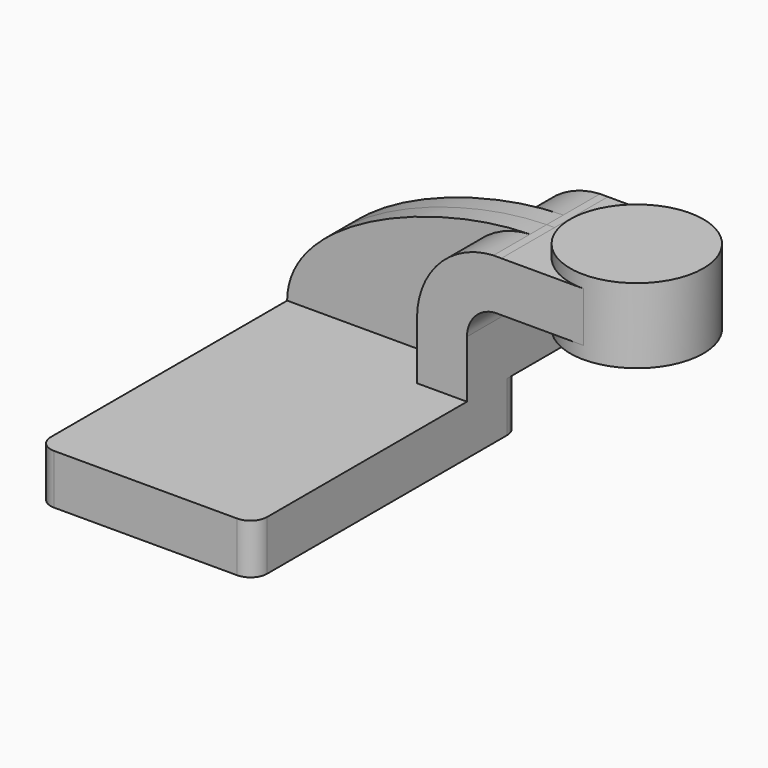
from build123d import *

# Parameters (mm, degrees)
F1_DEPTH = 127
F0_W     = 25.4
F0_H     = 19.05
F2_DEPTH = 25.4
F3_DEPTH = 7.9375
F5_R     = 6.35


with BuildPart() as f1:
    # F0 (on Front) → F1 (new body)
    with BuildSketch(Plane.XZ):
        Polygon((41.275, -9.525), (41.275, 9.525), (22.225, 9.525), (-41.275, 9.525), (-41.275, -9.525), align=None)
    extrude(amount=F1_DEPTH)

    # F0 (on Front) → F2 (join, symmetric)
    with BuildSketch(Plane.XZ):
        with BuildLine():
            Line((22.225, 9.525), (41.275, 9.525))
            Line((41.275, 9.525), (41.275, 31.3365191218))
            ThreePointArc((41.275, 31.3365191218), (45.0038822026, 39.8471765228), (53.788352915, 42.8752))
            Line((53.788352915, 42.8752), (60.325, 42.8752))
            Line((60.325, 42.8752), (60.325, 61.9252))
            Line((60.325, 61.9252), (54.3759968817, 61.9252))
            add(Edge.make_bspline(
                [(51.370796581, 61.9273374506), (52.3872818236, 61.9429580973), (53.3895331595, 61.9423398279), (54.3759968817, 61.9252)],
                knots=[106.1406160735, 106.1406160735, 106.1406160735, 106.1406160735, 109.0637160769, 109.0637160769, 109.0637160769, 109.0637160769], degree=3))
            ThreePointArc((51.370796581, 61.9273374506), (30.6779581359, 52.4627801751), (22.225, 31.3365191218))
            Line((22.225, 31.3365191218), (22.225, 9.525))
        make_face()
        with Locations((73.025, 52.4002)):
            Rectangle(F0_W, F0_H)
    extrude(amount=F2_DEPTH, both=True)

    # F0 (on Front) → F3 (join, symmetric)
    with BuildSketch(Plane.XZ):
        with BuildLine():
            Line((-41.275, 9.525), (22.225, 9.525))
            Line((22.225, 9.525), (22.225, 31.3365191218))
            ThreePointArc((22.225, 31.3365191218), (30.6779581359, 52.4627801751), (51.370796581, 61.9273374506))
            add(Edge.make_bspline(
                [(-41.275, 9.525), (-41.2155685722, 39.382135411), (14.4612246374, 61.3601365133), (51.370796581, 61.9273374506)],
                knots=[0, 0, 0, 0, 106.1406160735, 106.1406160735, 106.1406160735, 106.1406160735], degree=3))
        make_face()
    extrude(amount=F3_DEPTH, both=True)

    # F0 (on Front) → F4 (revolve)
    with BuildSketch(Plane.XZ):
        Polygon((85.725, 61.9252), (85.725, 42.8752), (85.725, 38.1), (111.125, 38.1), (111.125, 66.675), (85.725, 66.675), align=None)
    revolve(axis=Axis((85.725, 0, 52.3875), (0, 0, 1)))

    # F5
    f5_edges = [f1.edges().sort_by_distance(p)[0] for p in [
        (41.275, -127, 0),
        (-41.275, -127, 0),
        (41.275, 0, 0),
        (-41.275, 0, 0),
    ]]
    fillet(f5_edges, radius=F5_R)


solid = f1.part
